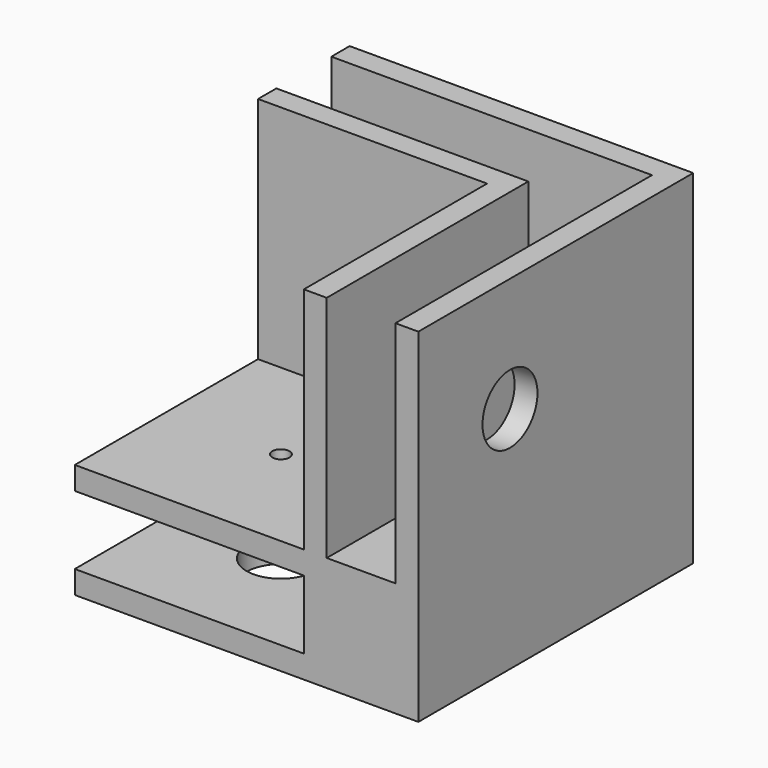
from build123d import *

# Parameters (mm, degrees)
F0_W      = 30
F0_H      = 30
F1_DEPTH  = 30
F2_W      = 20
F2_H      = 20
F3_DEPTH  = 20
F5_DEPTH  = 20
F6_W      = 20
F6_H      = 6
F7_DEPTH  = 20
F8_R      = 2.5
F9_DEPTH  = 2
F10_R     = 0.75
F11_DEPTH = 25
F12_R     = 3
F13_DEPTH = 2
F14_R     = 0.75
F15_DEPTH = 2
F16_R     = 0.75
F17_DEPTH = 2
F18_R     = 3
F19_DEPTH = 2


with BuildPart() as f1:
    # F0 (on Top) → F1 (new body)
    with BuildSketch(Plane.XY):
        with Locations((15, 15)):
            Rectangle(F0_W, F0_H)
    extrude(amount=F1_DEPTH)

    # F2 (on face) → F3 (cut)
    with BuildSketch(Plane.XY.offset(30)):
        with Locations((10, 10)):
            Rectangle(F2_W, F2_H)
    extrude(amount=-F3_DEPTH, mode=Mode.SUBTRACT)

    # F4 (on face) → F5 (cut)
    with BuildSketch(Plane.XY.offset(30)):
        Polygon((28, 28), (0, 28), (0, 22), (22, 22), (22, 0), (28, 0), (28, 22), align=None)
    extrude(amount=-F5_DEPTH, mode=Mode.SUBTRACT)

    # F6 (on face) → F7 (cut)
    with BuildSketch(Plane(origin=(0, 0, 0), x_dir=(0, -1, 0), z_dir=(-1, 0, 0))):
        with Locations((-10, 5)):
            Rectangle(F6_W, F6_H)
    extrude(amount=-F7_DEPTH, mode=Mode.SUBTRACT)

    # F8 (on face) → F9 (cut, through all)
    with BuildSketch(Plane(origin=(0, 30, 0), x_dir=(-1, 0, 0), z_dir=(0, 1, 0))):
        with Locations((-10, 20)):
            Circle(F8_R)
    extrude(amount=-F9_DEPTH, mode=Mode.SUBTRACT)

    # F10 (on face) → F11 (cut)
    with BuildSketch(Plane.XZ.offset(-20)):
        with Locations((10, 20)):
            Circle(F10_R)
    extrude(amount=-F11_DEPTH, mode=Mode.SUBTRACT)

    # F12 (on face) → F13 (cut, through all)
    with BuildSketch(Plane.YZ.offset(30)):
        with Locations((10, 20)):
            Circle(F12_R)
    extrude(amount=-F13_DEPTH, mode=Mode.SUBTRACT)

    # F14 (on face) → F15 (cut, through all)
    with BuildSketch(Plane(origin=(20, 0, 0), x_dir=(0, -1, 0), z_dir=(-1, 0, 0))):
        with Locations((-10, 20)):
            Circle(F14_R)
    extrude(amount=-F15_DEPTH, mode=Mode.SUBTRACT)

    # F16 (on face) → F17 (cut, through all)
    with BuildSketch(Plane.XY.offset(10)):
        with Locations((10, 10)):
            Circle(F16_R)
    extrude(amount=-F17_DEPTH, mode=Mode.SUBTRACT)

    # F18 (on face) → F19 (cut, through all)
    with BuildSketch(Plane(origin=(0, 0, 0), x_dir=(1, 0, 0), z_dir=(0, 0, -1))):
        with Locations((10, -10)):
            Circle(F18_R)
    extrude(amount=-F19_DEPTH, mode=Mode.SUBTRACT)


solid = f1.part
